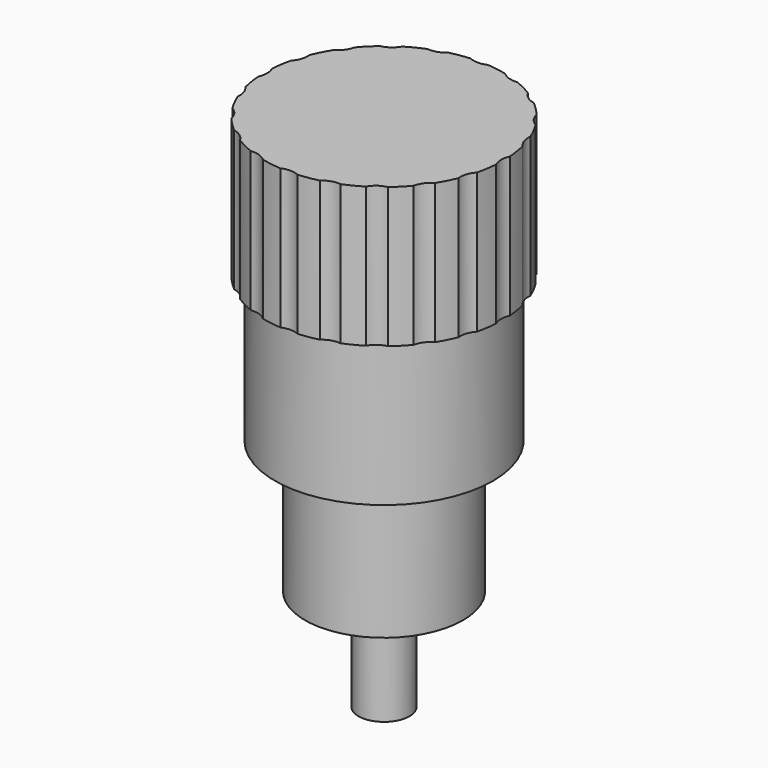
from build123d import *

# Parameters (mm, degrees)
F3_DEPTH = 25.909


with BuildPart() as f1:
    # F0 (on Front) → F1 (revolve)
    with BuildSketch(Plane.XZ):
        Polygon((5.9436, 20.828), (0, 20.828), (0, -5.08), (1.27, -5.08), (1.27, 0), (3.937, 0), (3.937, 6.604), (5.4356, 6.604), (5.4356, 13.843), (5.9436, 13.843), align=None)
    revolve(axis=Axis((0, 0, 29.5392621774), (0, 0, 1)))

    # F2 (on face) → F3 (cut, through all)
    with BuildSketch(Plane.XY.offset(20.828)):
        with BuildLine():
            ThreePointArc((-0.4275448519, 5.9282026247), (0, 5.8338649271), (0.4275448519, 5.9282026247))
            ThreePointArc((0.4275448519, 5.9282026247), (0, 5.9436), (-0.4275448519, 5.9282026247))
        make_face()
        with BuildLine():
            ThreePointArc((-1.4252960397, 5.7701743612), (-1.8366734078, 5.6526995103), (-2.2385346746, 5.505937111))
            ThreePointArc((-2.2385346746, 5.505937111), (-1.8027634054, 5.5483352541), (-1.4252960397, 5.7701743612))
        make_face()
        with BuildLine():
            ThreePointArc((-3.1386190243, 5.0473212281), (-3.4935604255, 4.8084734078), (-3.8304011265, 4.5447121108))
            ThreePointArc((-3.8304011265, 4.5447121108), (-3.429059768, 4.7196958689), (-3.1386190243, 5.0473212281))
        make_face()
        with BuildLine():
            ThreePointArc((-4.5447121108, 3.8304011265), (-4.8084734078, 3.4935604255), (-5.0473212281, 3.1386190243))
            ThreePointArc((-5.0473212281, 3.1386190243), (-4.7196958689, 3.429059768), (-4.5447121108, 3.8304011265))
        make_face()
        with BuildLine():
            ThreePointArc((-5.505937111, 2.2385346746), (-5.6526995103, 1.8366734078), (-5.7701743612, 1.4252960397))
            ThreePointArc((-5.7701743612, 1.4252960397), (-5.5483352541, 1.8027634054), (-5.505937111, 2.2385346746))
        make_face()
        with BuildLine():
            ThreePointArc((-5.9282026247, 0.4275448519), (-5.9436, 0), (-5.9282026247, -0.4275448519))
            ThreePointArc((-5.9282026247, -0.4275448519), (-5.8338649271, 0), (-5.9282026247, 0.4275448519))
        make_face()
        with BuildLine():
            ThreePointArc((-5.7701743612, -1.4252960397), (-5.6526995103, -1.8366734078), (-5.505937111, -2.2385346746))
            ThreePointArc((-5.505937111, -2.2385346746), (-5.5483352541, -1.8027634054), (-5.7701743612, -1.4252960397))
        make_face()
        with BuildLine():
            ThreePointArc((-5.0473212281, -3.1386190243), (-4.8084734078, -3.4935604255), (-4.5447121108, -3.8304011265))
            ThreePointArc((-4.5447121108, -3.8304011265), (-4.7196958689, -3.429059768), (-5.0473212281, -3.1386190243))
        make_face()
        with BuildLine():
            ThreePointArc((-3.8304011265, -4.5447121108), (-3.4935604255, -4.8084734078), (-3.1386190243, -5.0473212281))
            ThreePointArc((-3.1386190243, -5.0473212281), (-3.429059768, -4.7196958689), (-3.8304011265, -4.5447121108))
        make_face()
        with BuildLine():
            ThreePointArc((-2.2385346746, -5.505937111), (-1.8366734078, -5.6526995103), (-1.4252960397, -5.7701743612))
            ThreePointArc((-1.4252960397, -5.7701743612), (-1.8027634054, -5.5483352541), (-2.2385346746, -5.505937111))
        make_face()
        with BuildLine():
            ThreePointArc((-0.4275448519, -5.9282026247), (0, -5.9436), (0.4275448519, -5.9282026247))
            ThreePointArc((0.4275448519, -5.9282026247), (0, -5.8338649271), (-0.4275448519, -5.9282026247))
        make_face()
        with BuildLine():
            ThreePointArc((1.4252960397, -5.7701743612), (1.8366734078, -5.6526995103), (2.2385346746, -5.505937111))
            ThreePointArc((2.2385346746, -5.505937111), (1.8027634054, -5.5483352541), (1.4252960397, -5.7701743612))
        make_face()
        with BuildLine():
            ThreePointArc((3.1386190243, -5.0473212281), (3.4935604255, -4.8084734078), (3.8304011265, -4.5447121108))
            ThreePointArc((3.8304011265, -4.5447121108), (3.429059768, -4.7196958689), (3.1386190243, -5.0473212281))
        make_face()
        with BuildLine():
            ThreePointArc((4.5447121108, -3.8304011265), (4.8084734078, -3.4935604255), (5.0473212281, -3.1386190243))
            ThreePointArc((5.0473212281, -3.1386190243), (4.7196958689, -3.429059768), (4.5447121108, -3.8304011265))
        make_face()
        with BuildLine():
            ThreePointArc((5.505937111, -2.2385346746), (5.6526995103, -1.8366734078), (5.7701743612, -1.4252960397))
            ThreePointArc((5.7701743612, -1.4252960397), (5.5483352541, -1.8027634054), (5.505937111, -2.2385346746))
        make_face()
        with BuildLine():
            ThreePointArc((5.9282026247, -0.4275448519), (5.9436, 0), (5.9282026247, 0.4275448519))
            ThreePointArc((5.9282026247, 0.4275448519), (5.8338649271, 0), (5.9282026247, -0.4275448519))
        make_face()
        with BuildLine():
            ThreePointArc((5.7701743612, 1.4252960397), (5.6526995103, 1.8366734078), (5.505937111, 2.2385346746))
            ThreePointArc((5.505937111, 2.2385346746), (5.5483352541, 1.8027634054), (5.7701743612, 1.4252960397))
        make_face()
        with BuildLine():
            ThreePointArc((5.0473212281, 3.1386190243), (4.8084734078, 3.4935604255), (4.5447121108, 3.8304011265))
            ThreePointArc((4.5447121108, 3.8304011265), (4.7196958689, 3.429059768), (5.0473212281, 3.1386190243))
        make_face()
        with BuildLine():
            ThreePointArc((3.8304011265, 4.5447121108), (3.4935604255, 4.8084734078), (3.1386190243, 5.0473212281))
            ThreePointArc((3.1386190243, 5.0473212281), (3.429059768, 4.7196958689), (3.8304011265, 4.5447121108))
        make_face()
        with BuildLine():
            ThreePointArc((2.2385346746, 5.505937111), (1.8366734078, 5.6526995103), (1.4252960397, 5.7701743612))
            ThreePointArc((1.4252960397, 5.7701743612), (1.8027634054, 5.5483352541), (2.2385346746, 5.505937111))
        make_face()
    extrude(amount=-F3_DEPTH, mode=Mode.SUBTRACT)


solid = f1.part
